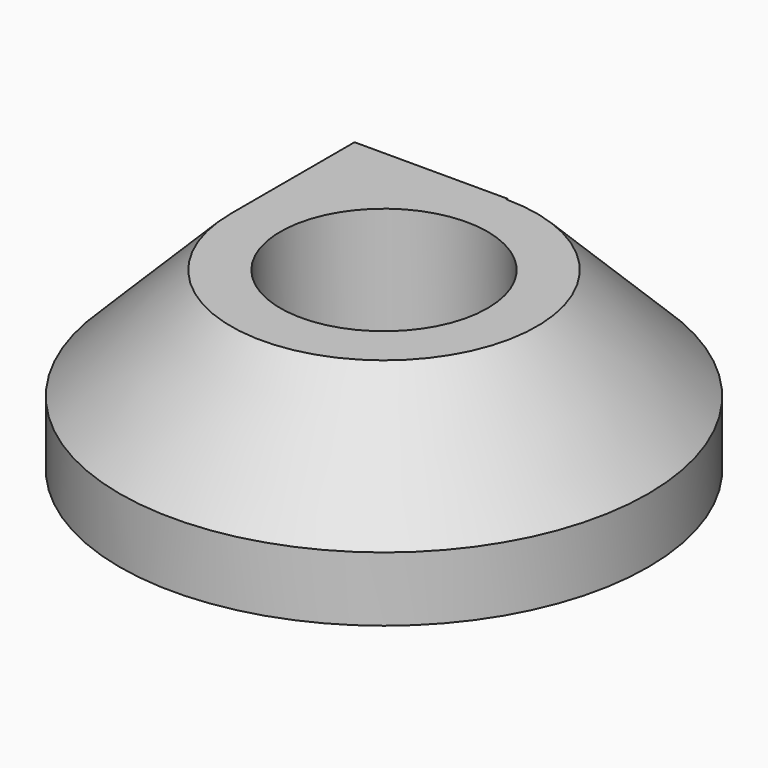
from build123d import *

# Parameters (mm, degrees)
F0_W     = 48.2568442822
F0_H     = 32.1138165891
F1_DEPTH = 28.194
F2_SIZE  = 20.32
F4_R     = 18.934689064
F5_DEPTH = 32.1138165891


with BuildPart() as f1:
    # F0 (on Front) → F1 (new body)
    with BuildSketch(Plane.XZ):
        with Locations((-83.3175331354, 7.1921925992)):
            Rectangle(F0_W, F0_H)
    extrude(amount=F1_DEPTH)

    # F2
    f2_edges = [f1.edges().sort_by_distance(p)[0] for p in [
        (-107.445955, -14.097, 23.249101),
    ]]
    chamfer(f2_edges, length=F2_SIZE)

    # F1_face (on face) → F3 (revolve)
    with BuildSketch(Plane(origin=(-80.6501580531, -28.194, 5.7653617255), x_dir=(1, 0, 0), z_dir=(0, -1, 0))):
        Polygon((21.4610470587, 17.4837391683), (-6.4757972234, 17.4837391683), (-26.7957972234, -2.8362608317), (-26.7957972234, -14.6300774209), (21.4610470587, -14.6300774209), align=None)
    revolve(axis=Axis((-59.1891109943, -28.194, 7.1921925992), (0, 0, -1)))

    # F4 (on face) → F5 (cut, through all)
    with BuildSketch(Plane.XY.offset(23.2491008937)):
        with Locations((-59.1891109943, -28.194)):
            Circle(F4_R)
    extrude(amount=-F5_DEPTH, mode=Mode.SUBTRACT)


solid = f1.part
